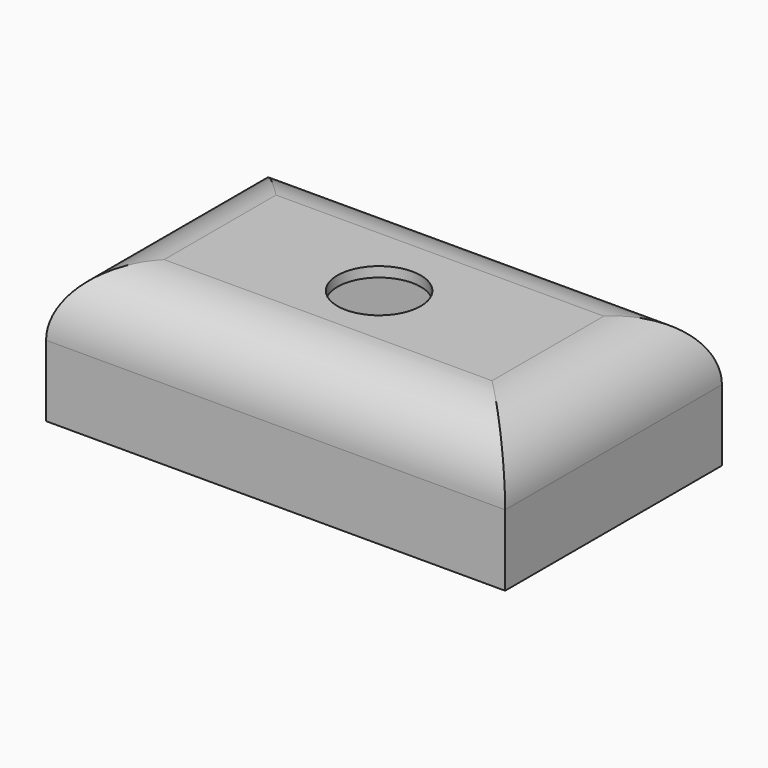
from build123d import *

# Parameters (mm, degrees)
F0_W     = 115.850285
F0_H     = 68.390653
F1_DEPTH = 34.544
F2_R     = 16.556677
F3_T     = -2.54
F4_R     = 10.511937
F5_DEPTH = 25.4


with BuildPart() as f1:
    # F0 (on Top) → F1 (new body)
    with BuildSketch(Plane.XY):
        with Locations((57.925142, 34.195327)):
            Rectangle(F0_W, F0_H)
    extrude(amount=F1_DEPTH)

    # F2
    f2_edges = [f1.edges().sort_by_distance(p)[0] for p in [
        (0, 34.195326, 34.544),
        (57.925142, 0, 34.544),
        (115.850285, 34.195326, 34.544),
        (57.925142, 68.390653, 34.544),
    ]]
    fillet(f2_edges, radius=F2_R)

    # F3
    f3_openings = [f1.faces().sort_by_distance(p)[0] for p in [
        (57.925142, 34.195326, 0),
    ]]
    offset(amount=F3_T, openings=f3_openings)

    # F4 (on face) → F5 (cut)
    with BuildSketch(Plane.XY.offset(34.544)):
        with Locations((57.925142, 32.649688)):
            Circle(F4_R)
    extrude(amount=-F5_DEPTH, mode=Mode.SUBTRACT)


solid = f1.part
